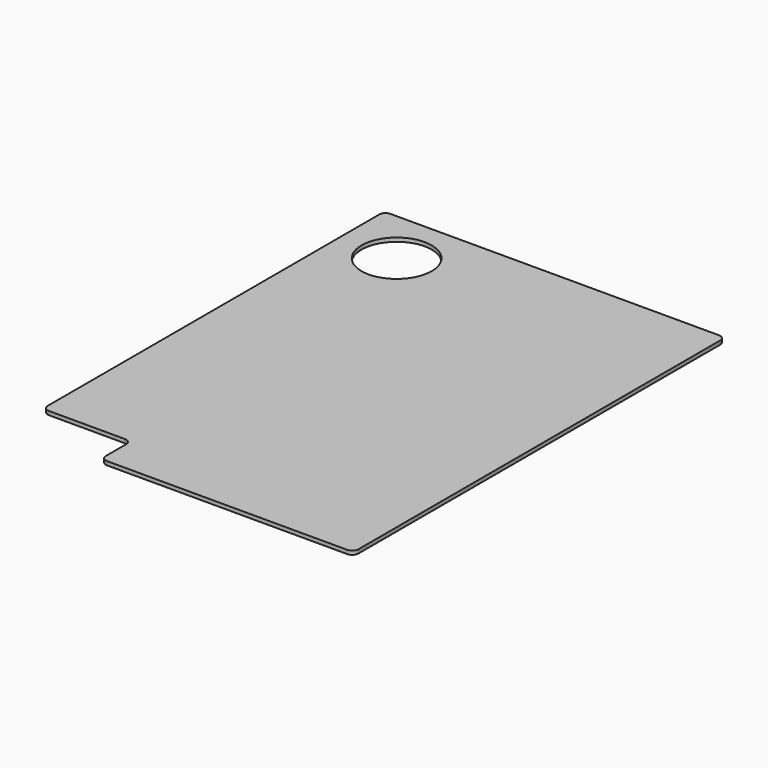
from build123d import *

# Parameters (mm, degrees)
PAD012_DEPTH             = 3
SKETCH090_R              = 27.75
POCKET039_DEPTH          = 0.001
POCKET039_DEPTH_BACK     = 3.001
POCKET040_DEPTH          = 0.001
POCKET040_DEPTH_BACK     = 3.001
CLONE028_ROLL_ANGLE      = 180
CLONE028_PLACEMENT_ANGLE = -90


with BuildPart() as part:
    # Sketch089 → Pad012 (new body)
    with BuildSketch(Plane.XY):
        with BuildLine():
            ThreePointArc((-184, -130), (-182.535534, -133.535534), (-179, -135))
            Line((179, -135), (-179, -135))
            ThreePointArc((179, -135), (182.535534, -133.535534), (184, -130))
            Line((184, 130), (184, -130))
            ThreePointArc((184, 130), (182.535534, 133.535534), (179, 135))
            Line((-179, 135), (179, 135))
            ThreePointArc((-179, 135), (-182.535534, 133.535534), (-184, 130))
            Line((-184, -130), (-184, 130))
        make_face()
    extrude(amount=PAD012_DEPTH)

    # Sketch090 → Pocket039 (cut, two sides)
    with BuildSketch(Plane(origin=(-140, 90, 0), x_dir=(1, 0, 0), z_dir=(0, 0, 1))) as pocket039_sk:
        Circle(SKETCH090_R)
    extrude(amount=-POCKET039_DEPTH, mode=Mode.SUBTRACT)
    extrude(pocket039_sk.sketch, amount=POCKET039_DEPTH_BACK, mode=Mode.SUBTRACT)

    # Sketch091 → Pocket040 (cut, two sides)
    with BuildSketch(Plane.XY) as pocket040_sk:
        with BuildLine():
            Line((184, 135), (149, 135))
            ThreePointArc((154, 130), (152.535534, 133.535534), (149, 135))
            Line((154, 130), (154, 70))
            ThreePointArc((154, 70), (155.464466, 66.464466), (159, 65))
            Line((159, 65), (179, 65))
            ThreePointArc((184, 60), (182.535534, 63.535534), (179, 65))
            Line((184, 60), (184, 135))
        make_face()
    extrude(amount=-POCKET040_DEPTH, mode=Mode.SUBTRACT)
    extrude(pocket040_sk.sketch, amount=POCKET040_DEPTH_BACK, mode=Mode.SUBTRACT)


with BuildPart() as part_1:
    # Clone028 roll: moved
    add(part.part.rotate(Axis((0, 0, 0), (1, 0, 0)), CLONE028_ROLL_ANGLE))


with BuildPart() as part_2:
    # Clone028 placement: moved
    add(part_1.part.moved(Location((135, 184, 3))).rotate(Axis((135, 184, 3), (0, 0, 1)), CLONE028_PLACEMENT_ANGLE))


solid = part_2.part
